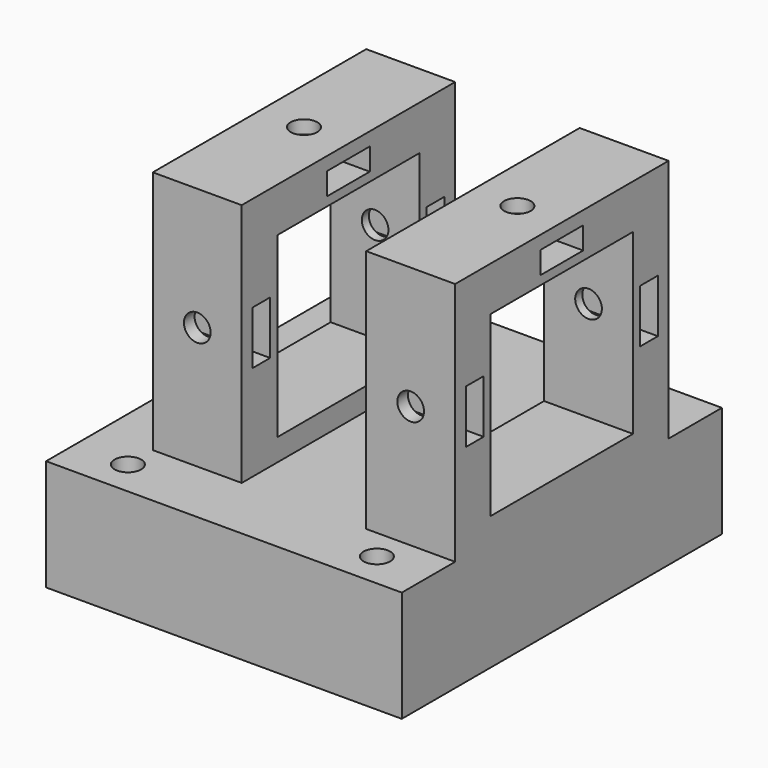
from build123d import *

# Parameters (mm, degrees)
F0_W      = 60
F0_H      = 80
F1_DEPTH  = 20
F2_W      = 80
F2_H      = 90
F3_DEPTH  = 25
F4_R      = 3
F5_DEPTH  = 25.001
F6_W      = 20
F6_H      = 60
F7_DEPTH  = 55
F8_W      = 40
F8_H      = 40
F8_W_2    = 5
F8_H_2    = 12
F8_W_3    = 12
F8_H_3    = 5
F9_DEPTH  = 68.001
F10_R     = 3
F11_DEPTH = 75.001
F12_R     = 3
F13_DEPTH = 3


with BuildPart() as f1:
    # F0 (on Right) → F1 (new body)
    with BuildSketch(Plane.YZ):
        Rectangle(F0_W, F0_H)
    extrude(amount=F1_DEPTH)

    # F2 (on face) → F3 (join)
    with BuildSketch(Plane(origin=(0, 0, -40), x_dir=(1, 0, 0), z_dir=(0, 0, -1))):
        with Locations((-20, 0)):
            Rectangle(F2_W, F2_H)
    extrude(amount=-F3_DEPTH)

    # F4 (on face) → F5 (cut, through all)
    with BuildSketch(Plane.XY.offset(-15)):
        with Locations((-48, 37)):
            Circle(F4_R)
        with Locations((-48, -37)):
            Circle(F4_R)
        with Locations((8, -37)):
            Circle(F4_R)
        with Locations((8, 37)):
            Circle(F4_R)
    extrude(amount=-F5_DEPTH, mode=Mode.SUBTRACT)

    # F6 (on face) → F7 (join, through all)
    with BuildSketch(Plane.XY.offset(-15)):
        with Locations((-38, 0)):
            Rectangle(F6_W, F6_H)
    extrude(amount=F7_DEPTH)

    # F8 (on face) → F9 (cut, through all)
    with BuildSketch(Plane(origin=(-48, 0, 0), x_dir=(0, -1, 0), z_dir=(-1, 0, 0))):
        with Locations((0, 10)):
            Rectangle(F8_W, F8_H)
        with Locations((-24.5, 12.5)):
            Rectangle(F8_W_2, F8_H_2)
        with Locations((0, 34.5)):
            Rectangle(F8_W_3, F8_H_3)
        with Locations((24.5, 12.5)):
            Rectangle(F8_W_2, F8_H_2)
    extrude(amount=-F9_DEPTH, mode=Mode.SUBTRACT)

    # F10 (on face) → F11 (cut, through all)
    with BuildSketch(Plane.XZ.offset(30)):
        with Locations((-38, 12.5)):
            Circle(F10_R)
        with Locations((10, 12.5)):
            Circle(F10_R)
    extrude(amount=-F11_DEPTH, mode=Mode.SUBTRACT)

    # F12 (on face) → F13 (cut, through all)
    with BuildSketch(Plane.XY.offset(40)):
        with Locations((-38, 0)):
            Circle(F12_R)
        with Locations((10, 0)):
            Circle(F12_R)
    extrude(amount=-F13_DEPTH, mode=Mode.SUBTRACT)


solid = f1.part
